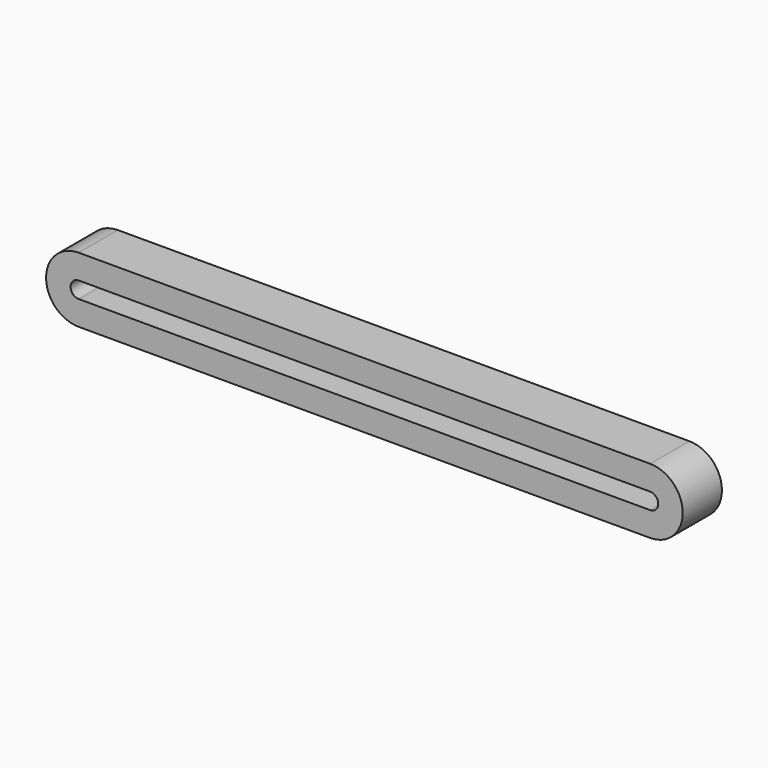
from build123d import *

# Parameters (mm, degrees)
F1_DEPTH = 5
F2_DEPTH = 25


with BuildPart() as f1:
    # F0 (on Front) → F1 (new body)
    with BuildSketch(Plane.XZ):
        with BuildLine():
            Line((92.571314, -16.547418), (-257.428686, -16.547418))
            ThreePointArc((-257.428686, -16.547418), (-277.428686, -36.547418), (-257.428686, -56.547418))
            Line((-257.428686, -56.547418), (92.571314, -56.547418))
            ThreePointArc((92.571314, -56.547418), (112.571314, -36.547418), (92.571314, -16.547418))
        make_face()
        with BuildLine():
            ThreePointArc((-257.428686, -41.547418), (-262.428686, -36.547418), (-257.428686, -31.547418))
            Line((-257.428686, -31.547418), (92.571314, -31.547418))
            ThreePointArc((92.571314, -31.547418), (97.571314, -36.547418), (92.571314, -41.547418))
            Line((92.571314, -41.547418), (-257.428686, -41.547418))
        make_face(mode=Mode.SUBTRACT)
    extrude(amount=F1_DEPTH)

    # F1_face (on face) → F2 (join)
    with BuildSketch(Plane(origin=(-82.428686, -5, -36.547418), x_dir=(1, 0, 0), z_dir=(0, -1, 0))):
        with BuildLine():
            Line((175, 20), (-175, 20))
            ThreePointArc((-175, 20), (-195, 0), (-175, -20))
            Line((-175, -20), (175, -20))
            ThreePointArc((175, -20), (195, 0), (175, 20))
        make_face()
        with BuildLine():
            Line((175, -5), (-175, -5))
            ThreePointArc((-175, -5), (-180, 0), (-175, 5))
            Line((-175, 5), (175, 5))
            ThreePointArc((175, 5), (180, 0), (175, -5))
        make_face(mode=Mode.SUBTRACT)
    extrude(amount=F2_DEPTH)


solid = f1.part
